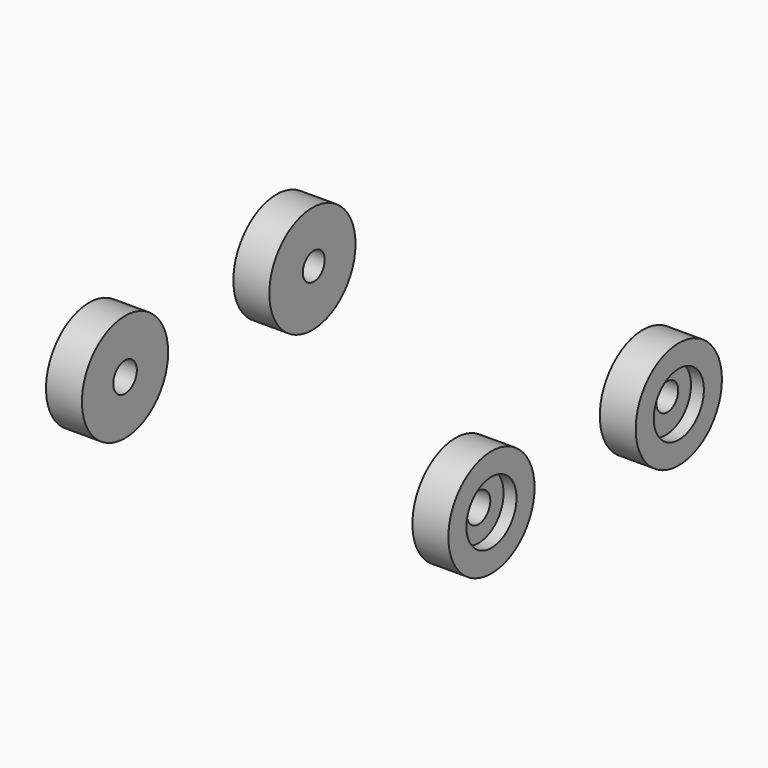
from build123d import *

# Parameters (mm, degrees)
F1_START = 58.42
F0_R     = 19.05
F1_DEPTH = 12.7
F2_R     = 11.0703614
F2_R_2   = 11.0744
F3_DEPTH = 4.572
F4_R     = 5.2110339315
F4_R_2   = 4.844169713
F5_DEPTH = 40.64


with BuildPart() as f1:
    # F0 (on Right) → F1 (new body)
    with BuildSketch(Plane.YZ.offset(F1_START)):
        with Locations((-41.402, -31.75)):
            Circle(F0_R)
    extrude(amount=F1_DEPTH)


with BuildPart() as f1b:
    # F0 (on Right) → F1, piece 2 (new body)
    with BuildSketch(Plane.YZ.offset(F1_START)):
        with Locations((41.402, -31.75)):
            Circle(F0_R)
    extrude(amount=F1_DEPTH)


with BuildPart() as f3_tool:
    # F2 (on face) → F3 (new body)
    with BuildSketch(Plane.YZ.offset(71.12)):
        with Locations((-41.402, -31.75)):
            Circle(F2_R)
        with Locations((41.4059897788, -31.7506260631)):
            Circle(F2_R_2)
    extrude(amount=-F3_DEPTH)


with BuildPart() as f1_1:
    add(f1.part)

    # F3: cut by f3_tool
    add(f3_tool.part, mode=Mode.SUBTRACT)


with BuildPart() as f1b_1:
    add(f1b.part)

    # F3: cut by f3_tool
    add(f3_tool.part, mode=Mode.SUBTRACT)


with BuildPart() as f5_tool:
    # F4 (on face) → F5 (new body)
    with BuildSketch(Plane.YZ.offset(66.548)):
        with Locations((-41.402, -31.75)):
            Circle(F4_R)
        with Locations((42.0207567513, -31.1666876078)):
            Circle(F4_R_2)
    extrude(amount=-F5_DEPTH)


with BuildPart() as f1_2:
    add(f1_1.part)

    # F5: cut by f5_tool
    add(f5_tool.part, mode=Mode.SUBTRACT)


with BuildPart() as f1b_2:
    add(f1b_1.part)

    # F5: cut by f5_tool
    add(f5_tool.part, mode=Mode.SUBTRACT)


with BuildPart() as f6_1:
    # F6: instance of F1
    add(f1_2.part.mirror(Plane.YZ))


with BuildPart() as f6_2:
    # F6: instance of F1b
    add(f1b_2.part.mirror(Plane.YZ))


solid = Compound([f1_2.part, f1b_2.part, f6_1.part, f6_2.part])
